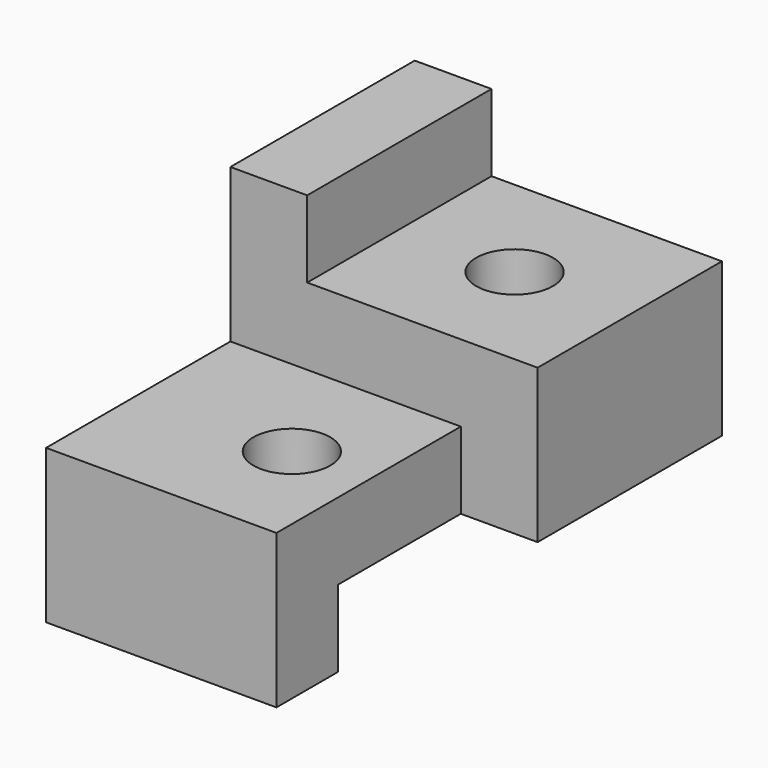
from build123d import *

# Parameters (mm, degrees)
F1_DEPTH = 25.4
F2_W     = 19.05
F2_H     = 19.05
F3_DEPTH = 6.35
F4_R     = 3.175
F5_DEPTH = 6.35
F6_R     = 3.175
F7_DEPTH = 19.05
F9_DEPTH = 6.35


with BuildPart() as f1:
    # F0 (on Right) → F1 (new body)
    with BuildSketch(Plane.YZ):
        Polygon((0, 12.7), (0, 0), (6.35, 0), (6.35, 6.35), (38.1, 6.35), (38.1, 25.4), (19.05, 25.4), (19.05, 12.7), align=None)
    extrude(amount=F1_DEPTH)

    # F2 (on face) → F3 (cut)
    with BuildSketch(Plane.XY.offset(25.4)):
        with Locations((15.875, 28.575)):
            Rectangle(F2_W, F2_H)
    extrude(amount=-F3_DEPTH, mode=Mode.SUBTRACT)

    # F4 (on face) → F5 (cut)
    with BuildSketch(Plane.XY.offset(12.7)):
        with Locations((12.7, 9.525)):
            Circle(F4_R)
    extrude(amount=-F5_DEPTH, mode=Mode.SUBTRACT)

    # F6 (on face) → F7 (cut)
    with BuildSketch(Plane.XY.offset(19.05)):
        with Locations((15.875, 28.575)):
            Circle(F6_R)
    extrude(amount=-F7_DEPTH, mode=Mode.SUBTRACT)

    # F8 (on face) → F9 (cut)
    with BuildSketch(Plane.YZ.offset(25.4)):
        Polygon((19.05, 12.7), (0, 12.7), (0, 0), (6.35, 0), (6.35, 6.35), (19.05, 6.35), align=None)
    extrude(amount=-F9_DEPTH, mode=Mode.SUBTRACT)


solid = f1.part
